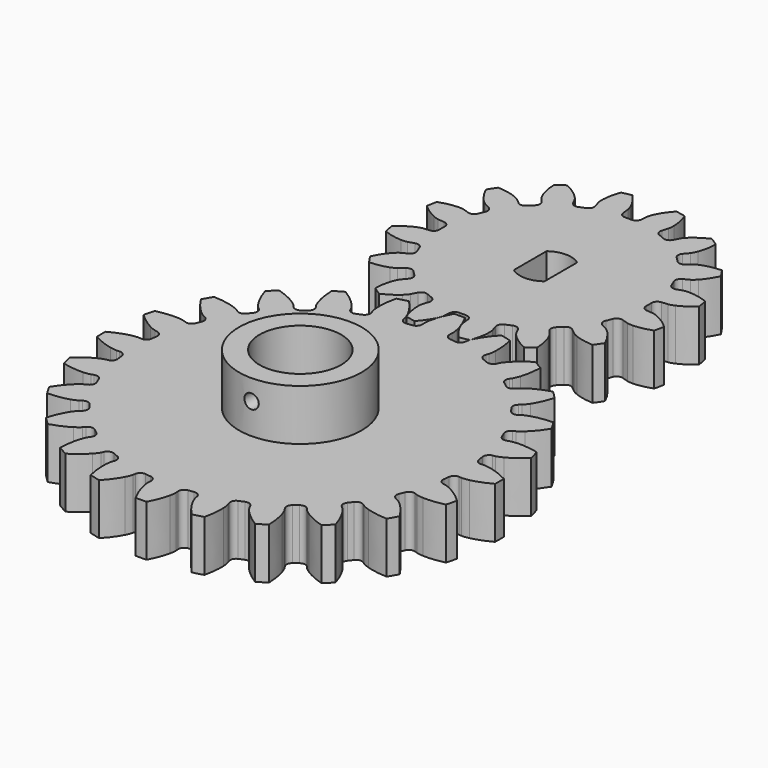
from build123d import *

# Parameters (mm, degrees)
BOX001_W               = 17
BOX001_H               = 14.6
BOX001_DEPTH           = 16.5
CYLINDER005_R          = 2.1
CYLINDER005_DEPTH      = 2
CYLINDER004_R          = 2.1
CYLINDER004_DEPTH      = 2
CYLINDER007_R          = 3.5
CYLINDER007_DEPTH      = 0.75
BOX_W                  = 7
BOX_H                  = 35
BOX_DEPTH              = 0.75
CYLINDER006_R          = 3.5
CYLINDER006_DEPTH      = 0.75
CYLINDER002_R          = 4.5
CYLINDER002_DEPTH      = 1.5
CYLINDER001_R          = 14
CYLINDER001_DEPTH      = 19
BOX003_W               = 1
BOX003_H               = 5
BOX003_DEPTH           = 6
BOX002_W               = 1
BOX002_H               = 5
BOX002_DEPTH           = 6
CYLINDER003_R          = 2.5
CYLINDER003_DEPTH      = 8.5
PAD_DEPTH              = 5
CYLINDER009_R          = 0.7
CYLINDER009_DEPTH      = 10
CYLINDER009_ROLL_ANGLE = 90
CYLINDER_R             = 4
CYLINDER_DEPTH         = 15
PAD001_DEPTH           = 5
CYLINDER008_R          = 6
CYLINDER008_DEPTH      = 12


with BuildPart() as cube001:
    # Box001 → Box001 (new body)
    with BuildSketch(Plane(origin=(0, -7.3, 2.5), x_dir=(1, 0, 0), z_dir=(0, 0, 1))):
        with Locations((8.5, 7.3)):
            Rectangle(BOX001_W, BOX001_H)
    extrude(amount=BOX001_DEPTH)


with BuildPart() as cylinder005:
    # Cylinder005 → Cylinder005 (new body)
    with BuildSketch(Plane(origin=(0, 17.5, 18), x_dir=(1, 0, 0), z_dir=(0, 0, 1))):
        Circle(CYLINDER005_R)
    extrude(amount=CYLINDER005_DEPTH)


with BuildPart() as cylinder004:
    # Cylinder004 → Cylinder004 (new body)
    with BuildSketch(Plane(origin=(0, -17.5, 18), x_dir=(1, 0, 0), z_dir=(0, 0, 1))):
        Circle(CYLINDER004_R)
    extrude(amount=CYLINDER004_DEPTH)


with BuildPart() as cylinder007:
    # Cylinder007 → Cylinder007 (new body)
    with BuildSketch(Plane(origin=(0, 17.5, 18), x_dir=(1, 0, 0), z_dir=(0, 0, 1))):
        Circle(CYLINDER007_R)
    extrude(amount=CYLINDER007_DEPTH)


with BuildPart() as cube:
    # Box → Box (new body)
    with BuildSketch(Plane(origin=(-3.5, -17.5, 18), x_dir=(1, 0, 0), z_dir=(0, 0, 1))):
        with Locations((3.5, 17.5)):
            Rectangle(BOX_W, BOX_H)
    extrude(amount=BOX_DEPTH)


with BuildPart() as cut002:
    # Cylinder006 → Cylinder006 (new body)
    with BuildSketch(Plane(origin=(0, -17.5, 18), x_dir=(1, 0, 0), z_dir=(0, 0, 1))):
        Circle(CYLINDER006_R)
    extrude(amount=CYLINDER006_DEPTH)

    # Fusion: union Cylinder007, Cube
    add(cylinder007.part)
    add(cube.part)


with BuildPart() as cut002_1:
    # Fusion placement: moved
    add(cut002.part.moved(Location((0, 0, 0.25))))

    # Cut001: cut Cylinder004
    add(cylinder004.part, mode=Mode.SUBTRACT)

    # Cut002: cut Cylinder005
    add(cylinder005.part, mode=Mode.SUBTRACT)


with BuildPart() as cylinder002:
    # Cylinder002 → Cylinder002 (new body)
    with BuildSketch(Plane(origin=(-8, 0, 19), x_dir=(1, 0, 0), z_dir=(0, 0, 1))):
        Circle(CYLINDER002_R)
    extrude(amount=CYLINDER002_DEPTH)


with BuildPart() as cylinder001:
    # Cylinder001 → Cylinder001 (new body)
    with BuildSketch(Plane.XY):
        Circle(CYLINDER001_R)
    extrude(amount=CYLINDER001_DEPTH)


with BuildPart() as cube003:
    # Box003 → Box003 (new body)
    with BuildSketch(Plane(origin=(-10.5, -2.5, 23), x_dir=(1, 0, 0), z_dir=(0, 0, 1))):
        with Locations((0.5, 2.5)):
            Rectangle(BOX003_W, BOX003_H)
    extrude(amount=BOX003_DEPTH)


with BuildPart() as cube002:
    # Box002 → Box002 (new body)
    with BuildSketch(Plane(origin=(-6.5, -2.5, 23), x_dir=(1, 0, 0), z_dir=(0, 0, 1))):
        with Locations((0.5, 2.5)):
            Rectangle(BOX002_W, BOX002_H)
    extrude(amount=BOX002_DEPTH)


with BuildPart() as motor:
    # Cylinder003 → Cylinder003 (new body)
    with BuildSketch(Plane(origin=(-8, 0, 20.5), x_dir=(1, 0, 0), z_dir=(0, 0, 1))):
        Circle(CYLINDER003_R)
    extrude(amount=CYLINDER003_DEPTH)

    # Cut003: cut Cube002
    add(cube002.part, mode=Mode.SUBTRACT)

    # Cut004: cut Cube003
    add(cube003.part, mode=Mode.SUBTRACT)

    # Fusion001: union Cube001, Cut002, Cylinder002, Cylinder001
    add(cube001.part)
    add(cut002_1.part)
    add(cylinder002.part)
    add(cylinder001.part)


with BuildPart() as motor_1:
    # Fusion001 placement: moved
    add(motor.part.moved(Location((8, 0, -23.5))))


with BuildPart() as small_gear:
    # InvoluteGear → Pad (new body)
    with BuildSketch(Plane(origin=(0, 0, 0), x_dir=(0.980785, 0.19509, 0), z_dir=(0, 0, 1))):
        with BuildLine():
            Line((10.604525, -1.204288), (11.229569, -1.274112))
            add(Edge.make_bspline(
                [(11.229569, -1.274112), (11.295854, -1.277192), (11.495172, -1.277709), (11.828545, -1.203766)],
                knots=[0, 0, 0, 0, 1, 1, 1, 1], degree=3))
            add(Edge.make_bspline(
                [(11.828545, -1.203766), (12.226607, -1.113799), (12.797122, -0.918468), (13.492577, -0.498449)],
                knots=[0, 0, 0, 0, 1, 1, 1, 1], degree=3))
            ThreePointArc((13.492577, -0.498449), (13.501782, 0), (13.492577, 0.498449))
            add(Edge.make_bspline(
                [(13.492577, 0.498449), (12.797122, 0.918468), (12.226607, 1.113799), (11.828545, 1.203766)],
                knots=[0, 0, 0, 0, 1, 1, 1, 1], degree=3))
            add(Edge.make_bspline(
                [(11.828545, 1.203766), (11.495172, 1.277709), (11.295854, 1.277192), (11.229569, 1.274112)],
                knots=[0, 0, 0, 0, 1, 1, 1, 1], degree=3))
            Line((11.229569, 1.274112), (10.604525, 1.204288))
            ThreePointArc((10.604525, 1.204288), (10.202728, 1.313815), (9.986382, 1.669668))
            ThreePointArc((9.986382, 1.669668), (9.930451, 1.97529), (9.865169, 2.279051))
            ThreePointArc((9.865169, 2.279051), (9.928867, 2.690608), (10.258164, 2.945559))
            Line((10.258164, 2.945559), (10.86235, 3.120244))
            add(Edge.make_bspline(
                [(10.86235, 3.120244), (10.924769, 3.142764), (11.109112, 3.218563), (11.388812, 3.414453)],
                knots=[0, 0, 0, 0, 1, 1, 1, 1], degree=3))
            add(Edge.make_bspline(
                [(11.388812, 3.414453), (11.722144, 3.649904), (12.174482, 4.048693), (12.656264, 4.702878)],
                knots=[0, 0, 0, 0, 1, 1, 1, 1], degree=3))
            ThreePointArc((12.656264, 4.702878), (12.47402, 5.166908), (12.274767, 5.623893))
            add(Edge.make_bspline(
                [(12.274767, 5.623893), (11.471517, 5.7458), (10.86968, 5.707936), (10.467489, 5.638723)],
                knots=[0, 0, 0, 0, 1, 1, 1, 1], degree=3))
            add(Edge.make_bspline(
                [(10.467489, 5.638723), (10.131196, 5.579461), (9.947248, 5.502708), (9.887187, 5.474496)],
                knots=[0, 0, 0, 0, 1, 1, 1, 1], degree=3))
            Line((9.887187, 5.474496), (9.336442, 5.170793))
            ThreePointArc((9.336442, 5.170793), (8.923316, 5.118222), (8.58726, 5.364195))
            ThreePointArc((8.58726, 5.364195), (8.41863, 5.625149), (8.242073, 5.880805))
            ThreePointArc((8.242073, 5.880805), (8.143426, 6.28541), (8.350091, 6.646971))
            Line((8.350091, 6.646971), (8.841437, 7.039571))
            add(Edge.make_bspline(
                [(8.841437, 7.039571), (8.890486, 7.084264), (9.031791, 7.224838), (9.215235, 7.512853)],
                knots=[0, 0, 0, 0, 1, 1, 1, 1], degree=3))
            add(Edge.make_bspline(
                [(9.215235, 7.512853), (9.433091, 7.857942), (9.698387, 8.399477), (9.893149, 9.188235)],
                knots=[0, 0, 0, 0, 1, 1, 1, 1], degree=3))
            ThreePointArc((9.893149, 9.188235), (9.547201, 9.547201), (9.188235, 9.893149))
            add(Edge.make_bspline(
                [(9.188235, 9.893149), (8.399477, 9.698387), (7.857942, 9.433091), (7.512853, 9.215235)],
                knots=[0, 0, 0, 0, 1, 1, 1, 1], degree=3))
            add(Edge.make_bspline(
                [(7.512853, 9.215235), (7.224838, 9.031791), (7.084264, 8.890486), (7.039571, 8.841437)],
                knots=[0, 0, 0, 0, 1, 1, 1, 1], degree=3))
            Line((7.039571, 8.841437), (6.646971, 8.350091))
            ThreePointArc((6.646971, 8.350091), (6.28541, 8.143426), (5.880805, 8.242073))
            ThreePointArc((5.880805, 8.242073), (5.625149, 8.41863), (5.364195, 8.58726))
            ThreePointArc((5.364195, 8.58726), (5.118222, 8.923316), (5.170793, 9.336442))
            Line((5.170793, 9.336442), (5.474496, 9.887187))
            add(Edge.make_bspline(
                [(5.474496, 9.887187), (5.502708, 9.947248), (5.579461, 10.131196), (5.638723, 10.467489)],
                knots=[0, 0, 0, 0, 1, 1, 1, 1], degree=3))
            add(Edge.make_bspline(
                [(5.638723, 10.467489), (5.707936, 10.86968), (5.7458, 11.471517), (5.623893, 12.274767)],
                knots=[0, 0, 0, 0, 1, 1, 1, 1], degree=3))
            ThreePointArc((5.623893, 12.274767), (5.166908, 12.47402), (4.702878, 12.656264))
            add(Edge.make_bspline(
                [(4.702878, 12.656264), (4.048693, 12.174482), (3.649904, 11.722144), (3.414453, 11.388812)],
                knots=[0, 0, 0, 0, 1, 1, 1, 1], degree=3))
            add(Edge.make_bspline(
                [(3.414453, 11.388812), (3.218563, 11.109112), (3.142764, 10.924769), (3.120244, 10.86235)],
                knots=[0, 0, 0, 0, 1, 1, 1, 1], degree=3))
            Line((3.120244, 10.86235), (2.945559, 10.258164))
            ThreePointArc((2.945559, 10.258164), (2.690608, 9.928867), (2.279051, 9.865169))
            ThreePointArc((2.279051, 9.865169), (1.97529, 9.930451), (1.669668, 9.986382))
            ThreePointArc((1.669668, 9.986382), (1.313815, 10.202728), (1.204288, 10.604525))
            Line((1.204288, 10.604525), (1.274112, 11.229569))
            add(Edge.make_bspline(
                [(1.274112, 11.229569), (1.277192, 11.295854), (1.277709, 11.495172), (1.203766, 11.828545)],
                knots=[0, 0, 0, 0, 1, 1, 1, 1], degree=3))
            add(Edge.make_bspline(
                [(1.203766, 11.828545), (1.113799, 12.226607), (0.918468, 12.797122), (0.498449, 13.492577)],
                knots=[0, 0, 0, 0, 1, 1, 1, 1], degree=3))
            ThreePointArc((0.498449, 13.492577), (0, 13.501782), (-0.498449, 13.492577))
            add(Edge.make_bspline(
                [(-0.498449, 13.492577), (-0.918468, 12.797122), (-1.113799, 12.226607), (-1.203766, 11.828545)],
                knots=[0, 0, 0, 0, 1, 1, 1, 1], degree=3))
            add(Edge.make_bspline(
                [(-1.203766, 11.828545), (-1.277709, 11.495172), (-1.277192, 11.295854), (-1.274112, 11.229569)],
                knots=[0, 0, 0, 0, 1, 1, 1, 1], degree=3))
            Line((-1.274112, 11.229569), (-1.204288, 10.604525))
            ThreePointArc((-1.204288, 10.604525), (-1.313815, 10.202728), (-1.669668, 9.986382))
            ThreePointArc((-1.669668, 9.986382), (-1.97529, 9.930451), (-2.279051, 9.865169))
            ThreePointArc((-2.279051, 9.865169), (-2.690608, 9.928867), (-2.945559, 10.258164))
            Line((-2.945559, 10.258164), (-3.120244, 10.86235))
            add(Edge.make_bspline(
                [(-3.120244, 10.86235), (-3.142764, 10.924769), (-3.218563, 11.109112), (-3.414453, 11.388812)],
                knots=[0, 0, 0, 0, 1, 1, 1, 1], degree=3))
            add(Edge.make_bspline(
                [(-3.414453, 11.388812), (-3.649904, 11.722144), (-4.048693, 12.174482), (-4.702878, 12.656264)],
                knots=[0, 0, 0, 0, 1, 1, 1, 1], degree=3))
            ThreePointArc((-4.702878, 12.656264), (-5.166908, 12.47402), (-5.623893, 12.274767))
            add(Edge.make_bspline(
                [(-5.623893, 12.274767), (-5.7458, 11.471517), (-5.707936, 10.86968), (-5.638723, 10.467489)],
                knots=[0, 0, 0, 0, 1, 1, 1, 1], degree=3))
            add(Edge.make_bspline(
                [(-5.638723, 10.467489), (-5.579461, 10.131196), (-5.502708, 9.947248), (-5.474496, 9.887187)],
                knots=[0, 0, 0, 0, 1, 1, 1, 1], degree=3))
            Line((-5.474496, 9.887187), (-5.170793, 9.336442))
            ThreePointArc((-5.170793, 9.336442), (-5.118222, 8.923316), (-5.364195, 8.58726))
            ThreePointArc((-5.364195, 8.58726), (-5.625149, 8.41863), (-5.880805, 8.242073))
            ThreePointArc((-5.880805, 8.242073), (-6.28541, 8.143426), (-6.646971, 8.350091))
            Line((-6.646971, 8.350091), (-7.039571, 8.841437))
            add(Edge.make_bspline(
                [(-7.039571, 8.841437), (-7.084264, 8.890486), (-7.224838, 9.031791), (-7.512853, 9.215235)],
                knots=[0, 0, 0, 0, 1, 1, 1, 1], degree=3))
            add(Edge.make_bspline(
                [(-7.512853, 9.215235), (-7.857942, 9.433091), (-8.399477, 9.698387), (-9.188235, 9.893149)],
                knots=[0, 0, 0, 0, 1, 1, 1, 1], degree=3))
            ThreePointArc((-9.188235, 9.893149), (-9.547201, 9.547201), (-9.893149, 9.188235))
            add(Edge.make_bspline(
                [(-9.893149, 9.188235), (-9.698387, 8.399477), (-9.433091, 7.857942), (-9.215235, 7.512853)],
                knots=[0, 0, 0, 0, 1, 1, 1, 1], degree=3))
            add(Edge.make_bspline(
                [(-9.215235, 7.512853), (-9.031791, 7.224838), (-8.890486, 7.084264), (-8.841437, 7.039571)],
                knots=[0, 0, 0, 0, 1, 1, 1, 1], degree=3))
            Line((-8.841437, 7.039571), (-8.350091, 6.646971))
            ThreePointArc((-8.350091, 6.646971), (-8.143426, 6.28541), (-8.242073, 5.880805))
            ThreePointArc((-8.242073, 5.880805), (-8.41863, 5.625149), (-8.58726, 5.364195))
            ThreePointArc((-8.58726, 5.364195), (-8.923316, 5.118222), (-9.336442, 5.170793))
            Line((-9.336442, 5.170793), (-9.887187, 5.474496))
            add(Edge.make_bspline(
                [(-9.887187, 5.474496), (-9.947248, 5.502708), (-10.131196, 5.579461), (-10.467489, 5.638723)],
                knots=[0, 0, 0, 0, 1, 1, 1, 1], degree=3))
            add(Edge.make_bspline(
                [(-10.467489, 5.638723), (-10.86968, 5.707936), (-11.471517, 5.7458), (-12.274767, 5.623893)],
                knots=[0, 0, 0, 0, 1, 1, 1, 1], degree=3))
            ThreePointArc((-12.274767, 5.623893), (-12.47402, 5.166908), (-12.656264, 4.702878))
            add(Edge.make_bspline(
                [(-12.656264, 4.702878), (-12.174482, 4.048693), (-11.722144, 3.649904), (-11.388812, 3.414453)],
                knots=[0, 0, 0, 0, 1, 1, 1, 1], degree=3))
            add(Edge.make_bspline(
                [(-11.388812, 3.414453), (-11.109112, 3.218563), (-10.924769, 3.142764), (-10.86235, 3.120244)],
                knots=[0, 0, 0, 0, 1, 1, 1, 1], degree=3))
            Line((-10.86235, 3.120244), (-10.258164, 2.945559))
            ThreePointArc((-10.258164, 2.945559), (-9.928867, 2.690608), (-9.865169, 2.279051))
            ThreePointArc((-9.865169, 2.279051), (-9.930451, 1.97529), (-9.986382, 1.669668))
            ThreePointArc((-9.986382, 1.669668), (-10.202728, 1.313815), (-10.604525, 1.204288))
            Line((-10.604525, 1.204288), (-11.229569, 1.274112))
            add(Edge.make_bspline(
                [(-11.229569, 1.274112), (-11.295854, 1.277192), (-11.495172, 1.277709), (-11.828545, 1.203766)],
                knots=[0, 0, 0, 0, 1, 1, 1, 1], degree=3))
            add(Edge.make_bspline(
                [(-11.828545, 1.203766), (-12.226607, 1.113799), (-12.797122, 0.918468), (-13.492577, 0.498449)],
                knots=[0, 0, 0, 0, 1, 1, 1, 1], degree=3))
            ThreePointArc((-13.492577, 0.498449), (-13.501782, 0), (-13.492577, -0.498449))
            add(Edge.make_bspline(
                [(-13.492577, -0.498449), (-12.797122, -0.918468), (-12.226607, -1.113799), (-11.828545, -1.203766)],
                knots=[0, 0, 0, 0, 1, 1, 1, 1], degree=3))
            add(Edge.make_bspline(
                [(-11.828545, -1.203766), (-11.495172, -1.277709), (-11.295854, -1.277192), (-11.229569, -1.274112)],
                knots=[0, 0, 0, 0, 1, 1, 1, 1], degree=3))
            Line((-11.229569, -1.274112), (-10.604525, -1.204288))
            ThreePointArc((-10.604525, -1.204288), (-10.202728, -1.313815), (-9.986382, -1.669668))
            ThreePointArc((-9.986382, -1.669668), (-9.930451, -1.97529), (-9.865169, -2.279051))
            ThreePointArc((-9.865169, -2.279051), (-9.928867, -2.690608), (-10.258164, -2.945559))
            Line((-10.258164, -2.945559), (-10.86235, -3.120244))
            add(Edge.make_bspline(
                [(-10.86235, -3.120244), (-10.924769, -3.142764), (-11.109112, -3.218563), (-11.388812, -3.414453)],
                knots=[0, 0, 0, 0, 1, 1, 1, 1], degree=3))
            add(Edge.make_bspline(
                [(-11.388812, -3.414453), (-11.722144, -3.649904), (-12.174482, -4.048693), (-12.656264, -4.702878)],
                knots=[0, 0, 0, 0, 1, 1, 1, 1], degree=3))
            ThreePointArc((-12.656264, -4.702878), (-12.47402, -5.166908), (-12.274767, -5.623893))
            add(Edge.make_bspline(
                [(-12.274767, -5.623893), (-11.471517, -5.7458), (-10.86968, -5.707936), (-10.467489, -5.638723)],
                knots=[0, 0, 0, 0, 1, 1, 1, 1], degree=3))
            add(Edge.make_bspline(
                [(-10.467489, -5.638723), (-10.131196, -5.579461), (-9.947248, -5.502708), (-9.887187, -5.474496)],
                knots=[0, 0, 0, 0, 1, 1, 1, 1], degree=3))
            Line((-9.887187, -5.474496), (-9.336442, -5.170793))
            ThreePointArc((-9.336442, -5.170793), (-8.923316, -5.118222), (-8.58726, -5.364195))
            ThreePointArc((-8.58726, -5.364195), (-8.41863, -5.625149), (-8.242073, -5.880805))
            ThreePointArc((-8.242073, -5.880805), (-8.143426, -6.28541), (-8.350091, -6.646971))
            Line((-8.350091, -6.646971), (-8.841437, -7.039571))
            add(Edge.make_bspline(
                [(-8.841437, -7.039571), (-8.890486, -7.084264), (-9.031791, -7.224838), (-9.215235, -7.512853)],
                knots=[0, 0, 0, 0, 1, 1, 1, 1], degree=3))
            add(Edge.make_bspline(
                [(-9.215235, -7.512853), (-9.433091, -7.857942), (-9.698387, -8.399477), (-9.893149, -9.188235)],
                knots=[0, 0, 0, 0, 1, 1, 1, 1], degree=3))
            ThreePointArc((-9.893149, -9.188235), (-9.547201, -9.547201), (-9.188235, -9.893149))
            add(Edge.make_bspline(
                [(-9.188235, -9.893149), (-8.399477, -9.698387), (-7.857942, -9.433091), (-7.512853, -9.215235)],
                knots=[0, 0, 0, 0, 1, 1, 1, 1], degree=3))
            add(Edge.make_bspline(
                [(-7.512853, -9.215235), (-7.224838, -9.031791), (-7.084264, -8.890486), (-7.039571, -8.841437)],
                knots=[0, 0, 0, 0, 1, 1, 1, 1], degree=3))
            Line((-7.039571, -8.841437), (-6.646971, -8.350091))
            ThreePointArc((-6.646971, -8.350091), (-6.28541, -8.143426), (-5.880805, -8.242073))
            ThreePointArc((-5.880805, -8.242073), (-5.625149, -8.41863), (-5.364195, -8.58726))
            ThreePointArc((-5.364195, -8.58726), (-5.118222, -8.923316), (-5.170793, -9.336442))
            Line((-5.170793, -9.336442), (-5.474496, -9.887187))
            add(Edge.make_bspline(
                [(-5.474496, -9.887187), (-5.502708, -9.947248), (-5.579461, -10.131196), (-5.638723, -10.467489)],
                knots=[0, 0, 0, 0, 1, 1, 1, 1], degree=3))
            add(Edge.make_bspline(
                [(-5.638723, -10.467489), (-5.707936, -10.86968), (-5.7458, -11.471517), (-5.623893, -12.274767)],
                knots=[0, 0, 0, 0, 1, 1, 1, 1], degree=3))
            ThreePointArc((-5.623893, -12.274767), (-5.166908, -12.47402), (-4.702878, -12.656264))
            add(Edge.make_bspline(
                [(-4.702878, -12.656264), (-4.048693, -12.174482), (-3.649904, -11.722144), (-3.414453, -11.388812)],
                knots=[0, 0, 0, 0, 1, 1, 1, 1], degree=3))
            add(Edge.make_bspline(
                [(-3.414453, -11.388812), (-3.218563, -11.109112), (-3.142764, -10.924769), (-3.120244, -10.86235)],
                knots=[0, 0, 0, 0, 1, 1, 1, 1], degree=3))
            Line((-3.120244, -10.86235), (-2.945559, -10.258164))
            ThreePointArc((-2.945559, -10.258164), (-2.690608, -9.928867), (-2.279051, -9.865169))
            ThreePointArc((-2.279051, -9.865169), (-1.97529, -9.930451), (-1.669668, -9.986382))
            ThreePointArc((-1.669668, -9.986382), (-1.313815, -10.202728), (-1.204288, -10.604525))
            Line((-1.204288, -10.604525), (-1.274112, -11.229569))
            add(Edge.make_bspline(
                [(-1.274112, -11.229569), (-1.277192, -11.295854), (-1.277709, -11.495172), (-1.203766, -11.828545)],
                knots=[0, 0, 0, 0, 1, 1, 1, 1], degree=3))
            add(Edge.make_bspline(
                [(-1.203766, -11.828545), (-1.113799, -12.226607), (-0.918468, -12.797122), (-0.498449, -13.492577)],
                knots=[0, 0, 0, 0, 1, 1, 1, 1], degree=3))
            ThreePointArc((-0.498449, -13.492577), (0, -13.501782), (0.498449, -13.492577))
            add(Edge.make_bspline(
                [(0.498449, -13.492577), (0.918468, -12.797122), (1.113799, -12.226607), (1.203766, -11.828545)],
                knots=[0, 0, 0, 0, 1, 1, 1, 1], degree=3))
            add(Edge.make_bspline(
                [(1.203766, -11.828545), (1.277709, -11.495172), (1.277192, -11.295854), (1.274112, -11.229569)],
                knots=[0, 0, 0, 0, 1, 1, 1, 1], degree=3))
            Line((1.274112, -11.229569), (1.204288, -10.604525))
            ThreePointArc((1.204288, -10.604525), (1.313815, -10.202728), (1.669668, -9.986382))
            ThreePointArc((1.669668, -9.986382), (1.97529, -9.930451), (2.279051, -9.865169))
            ThreePointArc((2.279051, -9.865169), (2.690608, -9.928867), (2.945559, -10.258164))
            Line((2.945559, -10.258164), (3.120244, -10.86235))
            add(Edge.make_bspline(
                [(3.120244, -10.86235), (3.142764, -10.924769), (3.218563, -11.109112), (3.414453, -11.388812)],
                knots=[0, 0, 0, 0, 1, 1, 1, 1], degree=3))
            add(Edge.make_bspline(
                [(3.414453, -11.388812), (3.649904, -11.722144), (4.048693, -12.174482), (4.702878, -12.656264)],
                knots=[0, 0, 0, 0, 1, 1, 1, 1], degree=3))
            ThreePointArc((4.702878, -12.656264), (5.166908, -12.47402), (5.623893, -12.274767))
            add(Edge.make_bspline(
                [(5.623893, -12.274767), (5.7458, -11.471517), (5.707936, -10.86968), (5.638723, -10.467489)],
                knots=[0, 0, 0, 0, 1, 1, 1, 1], degree=3))
            add(Edge.make_bspline(
                [(5.638723, -10.467489), (5.579461, -10.131196), (5.502708, -9.947248), (5.474496, -9.887187)],
                knots=[0, 0, 0, 0, 1, 1, 1, 1], degree=3))
            Line((5.474496, -9.887187), (5.170793, -9.336442))
            ThreePointArc((5.170793, -9.336442), (5.118222, -8.923316), (5.364195, -8.58726))
            ThreePointArc((5.364195, -8.58726), (5.625149, -8.41863), (5.880805, -8.242073))
            ThreePointArc((5.880805, -8.242073), (6.28541, -8.143426), (6.646971, -8.350091))
            Line((6.646971, -8.350091), (7.039571, -8.841437))
            add(Edge.make_bspline(
                [(7.039571, -8.841437), (7.084264, -8.890486), (7.224838, -9.031791), (7.512853, -9.215235)],
                knots=[0, 0, 0, 0, 1, 1, 1, 1], degree=3))
            add(Edge.make_bspline(
                [(7.512853, -9.215235), (7.857942, -9.433091), (8.399477, -9.698387), (9.188235, -9.893149)],
                knots=[0, 0, 0, 0, 1, 1, 1, 1], degree=3))
            ThreePointArc((9.188235, -9.893149), (9.547201, -9.547201), (9.893149, -9.188235))
            add(Edge.make_bspline(
                [(9.893149, -9.188235), (9.698387, -8.399477), (9.433091, -7.857942), (9.215235, -7.512853)],
                knots=[0, 0, 0, 0, 1, 1, 1, 1], degree=3))
            add(Edge.make_bspline(
                [(9.215235, -7.512853), (9.031791, -7.224838), (8.890486, -7.084264), (8.841437, -7.039571)],
                knots=[0, 0, 0, 0, 1, 1, 1, 1], degree=3))
            Line((8.841437, -7.039571), (8.350091, -6.646971))
            ThreePointArc((8.350091, -6.646971), (8.143426, -6.28541), (8.242073, -5.880805))
            ThreePointArc((8.242073, -5.880805), (8.41863, -5.625149), (8.58726, -5.364195))
            ThreePointArc((8.58726, -5.364195), (8.923316, -5.118222), (9.336442, -5.170793))
            Line((9.336442, -5.170793), (9.887187, -5.474496))
            add(Edge.make_bspline(
                [(9.887187, -5.474496), (9.947248, -5.502708), (10.131196, -5.579461), (10.467489, -5.638723)],
                knots=[0, 0, 0, 0, 1, 1, 1, 1], degree=3))
            add(Edge.make_bspline(
                [(10.467489, -5.638723), (10.86968, -5.707936), (11.471517, -5.7458), (12.274767, -5.623893)],
                knots=[0, 0, 0, 0, 1, 1, 1, 1], degree=3))
            ThreePointArc((12.274767, -5.623893), (12.47402, -5.166908), (12.656264, -4.702878))
            add(Edge.make_bspline(
                [(12.656264, -4.702878), (12.174482, -4.048693), (11.722144, -3.649904), (11.388812, -3.414453)],
                knots=[0, 0, 0, 0, 1, 1, 1, 1], degree=3))
            add(Edge.make_bspline(
                [(11.388812, -3.414453), (11.109112, -3.218563), (10.924769, -3.142764), (10.86235, -3.120244)],
                knots=[0, 0, 0, 0, 1, 1, 1, 1], degree=3))
            Line((10.86235, -3.120244), (10.258164, -2.945559))
            ThreePointArc((10.258164, -2.945559), (9.928867, -2.690608), (9.865169, -2.279051))
            ThreePointArc((9.865169, -2.279051), (9.930451, -1.97529), (9.986382, -1.669668))
            ThreePointArc((9.986382, -1.669668), (10.202728, -1.313815), (10.604525, -1.204288))
        make_face()
    extrude(amount=PAD_DEPTH)

    # Cut005: cut motor
    add(motor_1.part, mode=Mode.SUBTRACT)


with BuildPart() as small_gear_1:
    # Cut005 placement: moved
    add(small_gear.part.moved(Location((0, 30, 0))))


with BuildPart() as cylinder009:
    # Cylinder009 → Cylinder009 (new body)
    with BuildSketch(Plane.XY):
        Circle(CYLINDER009_R)
    extrude(amount=CYLINDER009_DEPTH)


with BuildPart() as cylinder009_1:
    # Cylinder009 roll: moved
    add(cylinder009.part.rotate(Axis((0, 0, 0), (1, 0, 0)), CYLINDER009_ROLL_ANGLE))


with BuildPart() as cylinder009_2:
    # Cylinder009 placement: moved
    add(cylinder009_1.part.moved(Location((0, 0, 8))))


with BuildPart() as cylinder:
    # Cylinder → Cylinder (new body)
    with BuildSketch(Plane.XY.offset(-2)):
        Circle(CYLINDER_R)
    extrude(amount=CYLINDER_DEPTH)


with BuildPart() as pad001:
    # InvoluteGear001 → Pad001 (new body)
    with BuildSketch(Plane.XY):
        with BuildLine():
            Line((16.624203, -1.338708), (16.88848, -1.358861))
            add(Edge.make_bspline(
                [(16.88848, -1.358861), (16.964059, -1.360558), (17.191713, -1.356955), (17.571029, -1.276517)],
                knots=[0, 0, 0, 0, 1, 1, 1, 1], degree=3))
            add(Edge.make_bspline(
                [(17.571029, -1.276517), (18.025313, -1.178915), (18.680882, -0.97201), (19.494199, -0.536026)],
                knots=[0, 0, 0, 0, 1, 1, 1, 1], degree=3))
            ThreePointArc((19.494199, -0.536026), (19.501567, 0), (19.494199, 0.536026))
            add(Edge.make_bspline(
                [(19.494199, 0.536026), (18.680882, 0.97201), (18.025313, 1.178915), (17.571029, 1.276517)],
                knots=[0, 0, 0, 0, 1, 1, 1, 1], degree=3))
            add(Edge.make_bspline(
                [(17.571029, 1.276517), (17.191713, 1.356955), (16.964059, 1.360558), (16.88848, 1.358861)],
                knots=[0, 0, 0, 0, 1, 1, 1, 1], degree=3))
            Line((16.88848, 1.358861), (16.624203, 1.338708))
            ThreePointArc((16.624203, 1.338708), (16.221906, 1.46482), (16.020243, 1.835061))
            ThreePointArc((16.020243, 1.835061), (15.987048, 2.104735), (15.949315, 2.373811))
            ThreePointArc((15.949315, 2.373811), (16.048281, 2.783631), (16.40423, 3.009568))
            Line((16.40423, 3.009568), (16.664718, 3.058501))
            add(Edge.make_bspline(
                [(16.664718, 3.058501), (16.738161, 3.076423), (16.957125, 3.138825), (17.302698, 3.314696)],
                knots=[0, 0, 0, 0, 1, 1, 1, 1], degree=3))
            add(Edge.make_bspline(
                [(17.302698, 3.314696), (17.716241, 3.52655), (18.295921, 3.896078), (18.968683, 4.527709)],
                knots=[0, 0, 0, 0, 1, 1, 1, 1], degree=3))
            ThreePointArc((18.968683, 4.527709), (18.837067, 5.047377), (18.691216, 5.563231))
            add(Edge.make_bspline(
                [(18.691216, 5.563231), (17.792771, 5.773857), (17.10599, 5.804039), (16.641924, 5.780738)],
                knots=[0, 0, 0, 0, 1, 1, 1, 1], degree=3))
            add(Edge.make_bspline(
                [(16.641924, 5.780738), (16.254714, 5.76026), (16.033884, 5.70482), (15.96132, 5.68362)],
                knots=[0, 0, 0, 0, 1, 1, 1, 1], degree=3))
            Line((15.96132, 5.68362), (15.711264, 5.595752))
            ThreePointArc((15.711264, 5.595752), (15.290035, 5.613446), (14.999417, 5.918877))
            ThreePointArc((14.999417, 5.918877), (14.897557, 6.17077), (14.791468, 6.420912))
            ThreePointArc((14.791468, 6.420912), (14.780993, 6.842382), (15.066336, 7.152747))
            Line((15.066336, 7.152747), (15.305283, 7.267432))
            add(Edge.make_bspline(
                [(15.305283, 7.267432), (15.371585, 7.303751), (15.566938, 7.420699), (15.855216, 7.680018)],
                knots=[0, 0, 0, 0, 1, 1, 1, 1], degree=3))
            add(Edge.make_bspline(
                [(15.855216, 7.680018), (16.199836, 7.991686), (16.664123, 8.498655), (17.150484, 9.282888)],
                knots=[0, 0, 0, 0, 1, 1, 1, 1], degree=3))
            ThreePointArc((17.150484, 9.282888), (16.888853, 9.750784), (16.614458, 10.211311))
            add(Edge.make_bspline(
                [(16.614458, 10.211311), (15.692113, 10.182226), (15.020921, 10.033627), (14.578699, 9.891011)],
                knots=[0, 0, 0, 0, 1, 1, 1, 1], degree=3))
            add(Edge.make_bspline(
                [(14.578699, 9.891011), (14.209983, 9.771014), (14.011027, 9.660307), (13.946422, 9.621049)],
                knots=[0, 0, 0, 0, 1, 1, 1, 1], degree=3))
            Line((13.946422, 9.621049), (13.727628, 9.471456))
            ThreePointArc((13.727628, 9.471456), (13.316173, 9.379524), (12.956406, 9.599331))
            ThreePointArc((12.956406, 9.599331), (12.792823, 9.816278), (12.625607, 10.030438))
            ThreePointArc((12.625607, 10.030438), (12.506404, 10.434836), (12.701696, 10.808477))
            Line((12.701696, 10.808477), (12.902819, 10.981099))
            add(Edge.make_bspline(
                [(12.902819, 10.981099), (12.957461, 11.033341), (13.115889, 11.196865), (13.327228, 11.52196)],
                knots=[0, 0, 0, 0, 1, 1, 1, 1], degree=3))
            add(Edge.make_bspline(
                [(13.327228, 11.52196), (13.57944, 11.912202), (13.896693, 12.522063), (14.163507, 13.405453)],
                knots=[0, 0, 0, 0, 1, 1, 1, 1], degree=3))
            ThreePointArc((14.163507, 13.405453), (13.78969, 13.78969), (13.405453, 14.163507))
            add(Edge.make_bspline(
                [(13.405453, 14.163507), (12.522063, 13.896693), (11.912202, 13.57944), (11.52196, 13.327228)],
                knots=[0, 0, 0, 0, 1, 1, 1, 1], degree=3))
            add(Edge.make_bspline(
                [(11.52196, 13.327228), (11.196865, 13.115889), (11.033341, 12.957461), (10.981099, 12.902819)],
                knots=[0, 0, 0, 0, 1, 1, 1, 1], degree=3))
            Line((10.981099, 12.902819), (10.808477, 12.701696))
            ThreePointArc((10.808477, 12.701696), (10.434836, 12.506404), (10.030438, 12.625607))
            ThreePointArc((10.030438, 12.625607), (9.816278, 12.792823), (9.599331, 12.956406))
            ThreePointArc((9.599331, 12.956406), (9.379524, 13.316173), (9.471456, 13.727628))
            Line((9.471456, 13.727628), (9.621049, 13.946422))
            add(Edge.make_bspline(
                [(9.621049, 13.946422), (9.660307, 14.011027), (9.771014, 14.209983), (9.891011, 14.578699)],
                knots=[0, 0, 0, 0, 1, 1, 1, 1], degree=3))
            add(Edge.make_bspline(
                [(9.891011, 14.578699), (10.033627, 15.020921), (10.182226, 15.692113), (10.211311, 16.614458)],
                knots=[0, 0, 0, 0, 1, 1, 1, 1], degree=3))
            ThreePointArc((10.211311, 16.614458), (9.750784, 16.888853), (9.282888, 17.150484))
            add(Edge.make_bspline(
                [(9.282888, 17.150484), (8.498655, 16.664123), (7.991686, 16.199836), (7.680018, 15.855216)],
                knots=[0, 0, 0, 0, 1, 1, 1, 1], degree=3))
            add(Edge.make_bspline(
                [(7.680018, 15.855216), (7.420699, 15.566938), (7.303751, 15.371585), (7.267432, 15.305283)],
                knots=[0, 0, 0, 0, 1, 1, 1, 1], degree=3))
            Line((7.267432, 15.305283), (7.152747, 15.066336))
            ThreePointArc((7.152747, 15.066336), (6.842382, 14.780993), (6.420912, 14.791468))
            ThreePointArc((6.420912, 14.791468), (6.17077, 14.897557), (5.918877, 14.999417))
            ThreePointArc((5.918877, 14.999417), (5.613446, 15.290035), (5.595752, 15.711264))
            Line((5.595752, 15.711264), (5.68362, 15.96132))
            add(Edge.make_bspline(
                [(5.68362, 15.96132), (5.70482, 16.033884), (5.76026, 16.254714), (5.780738, 16.641924)],
                knots=[0, 0, 0, 0, 1, 1, 1, 1], degree=3))
            add(Edge.make_bspline(
                [(5.780738, 16.641924), (5.804039, 17.10599), (5.773857, 17.792771), (5.563231, 18.691216)],
                knots=[0, 0, 0, 0, 1, 1, 1, 1], degree=3))
            ThreePointArc((5.563231, 18.691216), (5.047377, 18.837067), (4.527709, 18.968683))
            add(Edge.make_bspline(
                [(4.527709, 18.968683), (3.896078, 18.295921), (3.52655, 17.716241), (3.314696, 17.302698)],
                knots=[0, 0, 0, 0, 1, 1, 1, 1], degree=3))
            add(Edge.make_bspline(
                [(3.314696, 17.302698), (3.138825, 16.957125), (3.076423, 16.738161), (3.058501, 16.664718)],
                knots=[0, 0, 0, 0, 1, 1, 1, 1], degree=3))
            Line((3.058501, 16.664718), (3.009568, 16.40423))
            ThreePointArc((3.009568, 16.40423), (2.783631, 16.048281), (2.373811, 15.949315))
            ThreePointArc((2.373811, 15.949315), (2.104735, 15.987048), (1.835061, 16.020243))
            ThreePointArc((1.835061, 16.020243), (1.46482, 16.221906), (1.338708, 16.624203))
            Line((1.338708, 16.624203), (1.358861, 16.88848))
            add(Edge.make_bspline(
                [(1.358861, 16.88848), (1.360558, 16.964059), (1.356955, 17.191713), (1.276517, 17.571029)],
                knots=[0, 0, 0, 0, 1, 1, 1, 1], degree=3))
            add(Edge.make_bspline(
                [(1.276517, 17.571029), (1.178915, 18.025313), (0.97201, 18.680882), (0.536026, 19.494199)],
                knots=[0, 0, 0, 0, 1, 1, 1, 1], degree=3))
            ThreePointArc((0.536026, 19.494199), (0, 19.501567), (-0.536026, 19.494199))
            add(Edge.make_bspline(
                [(-0.536026, 19.494199), (-0.97201, 18.680882), (-1.178915, 18.025313), (-1.276517, 17.571029)],
                knots=[0, 0, 0, 0, 1, 1, 1, 1], degree=3))
            add(Edge.make_bspline(
                [(-1.276517, 17.571029), (-1.356955, 17.191713), (-1.360558, 16.964059), (-1.358861, 16.88848)],
                knots=[0, 0, 0, 0, 1, 1, 1, 1], degree=3))
            Line((-1.358861, 16.88848), (-1.338708, 16.624203))
            ThreePointArc((-1.338708, 16.624203), (-1.46482, 16.221906), (-1.835061, 16.020243))
            ThreePointArc((-1.835061, 16.020243), (-2.104735, 15.987048), (-2.373811, 15.949315))
            ThreePointArc((-2.373811, 15.949315), (-2.783631, 16.048281), (-3.009568, 16.40423))
            Line((-3.009568, 16.40423), (-3.058501, 16.664718))
            add(Edge.make_bspline(
                [(-3.058501, 16.664718), (-3.076423, 16.738161), (-3.138825, 16.957125), (-3.314696, 17.302698)],
                knots=[0, 0, 0, 0, 1, 1, 1, 1], degree=3))
            add(Edge.make_bspline(
                [(-3.314696, 17.302698), (-3.52655, 17.716241), (-3.896078, 18.295921), (-4.527709, 18.968683)],
                knots=[0, 0, 0, 0, 1, 1, 1, 1], degree=3))
            ThreePointArc((-4.527709, 18.968683), (-5.047377, 18.837067), (-5.563231, 18.691216))
            add(Edge.make_bspline(
                [(-5.563231, 18.691216), (-5.773857, 17.792771), (-5.804039, 17.10599), (-5.780738, 16.641924)],
                knots=[0, 0, 0, 0, 1, 1, 1, 1], degree=3))
            add(Edge.make_bspline(
                [(-5.780738, 16.641924), (-5.76026, 16.254714), (-5.70482, 16.033884), (-5.68362, 15.96132)],
                knots=[0, 0, 0, 0, 1, 1, 1, 1], degree=3))
            Line((-5.68362, 15.96132), (-5.595752, 15.711264))
            ThreePointArc((-5.595752, 15.711264), (-5.613446, 15.290035), (-5.918877, 14.999417))
            ThreePointArc((-5.918877, 14.999417), (-6.17077, 14.897557), (-6.420912, 14.791468))
            ThreePointArc((-6.420912, 14.791468), (-6.842382, 14.780993), (-7.152747, 15.066336))
            Line((-7.152747, 15.066336), (-7.267432, 15.305283))
            add(Edge.make_bspline(
                [(-7.267432, 15.305283), (-7.303751, 15.371585), (-7.420699, 15.566938), (-7.680018, 15.855216)],
                knots=[0, 0, 0, 0, 1, 1, 1, 1], degree=3))
            add(Edge.make_bspline(
                [(-7.680018, 15.855216), (-7.991686, 16.199836), (-8.498655, 16.664123), (-9.282888, 17.150484)],
                knots=[0, 0, 0, 0, 1, 1, 1, 1], degree=3))
            ThreePointArc((-9.282888, 17.150484), (-9.750784, 16.888853), (-10.211311, 16.614458))
            add(Edge.make_bspline(
                [(-10.211311, 16.614458), (-10.182226, 15.692113), (-10.033627, 15.020921), (-9.891011, 14.578699)],
                knots=[0, 0, 0, 0, 1, 1, 1, 1], degree=3))
            add(Edge.make_bspline(
                [(-9.891011, 14.578699), (-9.771014, 14.209983), (-9.660307, 14.011027), (-9.621049, 13.946422)],
                knots=[0, 0, 0, 0, 1, 1, 1, 1], degree=3))
            Line((-9.621049, 13.946422), (-9.471456, 13.727628))
            ThreePointArc((-9.471456, 13.727628), (-9.379524, 13.316173), (-9.599331, 12.956406))
            ThreePointArc((-9.599331, 12.956406), (-9.816278, 12.792823), (-10.030438, 12.625607))
            ThreePointArc((-10.030438, 12.625607), (-10.434836, 12.506404), (-10.808477, 12.701696))
            Line((-10.808477, 12.701696), (-10.981099, 12.902819))
            add(Edge.make_bspline(
                [(-10.981099, 12.902819), (-11.033341, 12.957461), (-11.196865, 13.115889), (-11.52196, 13.327228)],
                knots=[0, 0, 0, 0, 1, 1, 1, 1], degree=3))
            add(Edge.make_bspline(
                [(-11.52196, 13.327228), (-11.912202, 13.57944), (-12.522063, 13.896693), (-13.405453, 14.163507)],
                knots=[0, 0, 0, 0, 1, 1, 1, 1], degree=3))
            ThreePointArc((-13.405453, 14.163507), (-13.78969, 13.78969), (-14.163507, 13.405453))
            add(Edge.make_bspline(
                [(-14.163507, 13.405453), (-13.896693, 12.522063), (-13.57944, 11.912202), (-13.327228, 11.52196)],
                knots=[0, 0, 0, 0, 1, 1, 1, 1], degree=3))
            add(Edge.make_bspline(
                [(-13.327228, 11.52196), (-13.115889, 11.196865), (-12.957461, 11.033341), (-12.902819, 10.981099)],
                knots=[0, 0, 0, 0, 1, 1, 1, 1], degree=3))
            Line((-12.902819, 10.981099), (-12.701696, 10.808477))
            ThreePointArc((-12.701696, 10.808477), (-12.506404, 10.434836), (-12.625607, 10.030438))
            ThreePointArc((-12.625607, 10.030438), (-12.792823, 9.816278), (-12.956406, 9.599331))
            ThreePointArc((-12.956406, 9.599331), (-13.316173, 9.379524), (-13.727628, 9.471456))
            Line((-13.727628, 9.471456), (-13.946422, 9.621049))
            add(Edge.make_bspline(
                [(-13.946422, 9.621049), (-14.011027, 9.660307), (-14.209983, 9.771014), (-14.578699, 9.891011)],
                knots=[0, 0, 0, 0, 1, 1, 1, 1], degree=3))
            add(Edge.make_bspline(
                [(-14.578699, 9.891011), (-15.020921, 10.033627), (-15.692113, 10.182226), (-16.614458, 10.211311)],
                knots=[0, 0, 0, 0, 1, 1, 1, 1], degree=3))
            ThreePointArc((-16.614458, 10.211311), (-16.888853, 9.750784), (-17.150484, 9.282888))
            add(Edge.make_bspline(
                [(-17.150484, 9.282888), (-16.664123, 8.498655), (-16.199836, 7.991686), (-15.855216, 7.680018)],
                knots=[0, 0, 0, 0, 1, 1, 1, 1], degree=3))
            add(Edge.make_bspline(
                [(-15.855216, 7.680018), (-15.566938, 7.420699), (-15.371585, 7.303751), (-15.305283, 7.267432)],
                knots=[0, 0, 0, 0, 1, 1, 1, 1], degree=3))
            Line((-15.305283, 7.267432), (-15.066336, 7.152747))
            ThreePointArc((-15.066336, 7.152747), (-14.780993, 6.842382), (-14.791468, 6.420912))
            ThreePointArc((-14.791468, 6.420912), (-14.897557, 6.17077), (-14.999417, 5.918877))
            ThreePointArc((-14.999417, 5.918877), (-15.290035, 5.613446), (-15.711264, 5.595752))
            Line((-15.711264, 5.595752), (-15.96132, 5.68362))
            add(Edge.make_bspline(
                [(-15.96132, 5.68362), (-16.033884, 5.70482), (-16.254714, 5.76026), (-16.641924, 5.780738)],
                knots=[0, 0, 0, 0, 1, 1, 1, 1], degree=3))
            add(Edge.make_bspline(
                [(-16.641924, 5.780738), (-17.10599, 5.804039), (-17.792771, 5.773857), (-18.691216, 5.563231)],
                knots=[0, 0, 0, 0, 1, 1, 1, 1], degree=3))
            ThreePointArc((-18.691216, 5.563231), (-18.837067, 5.047377), (-18.968683, 4.527709))
            add(Edge.make_bspline(
                [(-18.968683, 4.527709), (-18.295921, 3.896078), (-17.716241, 3.52655), (-17.302698, 3.314696)],
                knots=[0, 0, 0, 0, 1, 1, 1, 1], degree=3))
            add(Edge.make_bspline(
                [(-17.302698, 3.314696), (-16.957125, 3.138825), (-16.738161, 3.076423), (-16.664718, 3.058501)],
                knots=[0, 0, 0, 0, 1, 1, 1, 1], degree=3))
            Line((-16.664718, 3.058501), (-16.40423, 3.009568))
            ThreePointArc((-16.40423, 3.009568), (-16.048281, 2.783631), (-15.949315, 2.373811))
            ThreePointArc((-15.949315, 2.373811), (-15.987048, 2.104735), (-16.020243, 1.835061))
            ThreePointArc((-16.020243, 1.835061), (-16.221906, 1.46482), (-16.624203, 1.338708))
            Line((-16.624203, 1.338708), (-16.88848, 1.358861))
            add(Edge.make_bspline(
                [(-16.88848, 1.358861), (-16.964059, 1.360558), (-17.191713, 1.356955), (-17.571029, 1.276517)],
                knots=[0, 0, 0, 0, 1, 1, 1, 1], degree=3))
            add(Edge.make_bspline(
                [(-17.571029, 1.276517), (-18.025313, 1.178915), (-18.680882, 0.97201), (-19.494199, 0.536026)],
                knots=[0, 0, 0, 0, 1, 1, 1, 1], degree=3))
            ThreePointArc((-19.494199, 0.536026), (-19.501567, 0), (-19.494199, -0.536026))
            add(Edge.make_bspline(
                [(-19.494199, -0.536026), (-18.680882, -0.97201), (-18.025313, -1.178915), (-17.571029, -1.276517)],
                knots=[0, 0, 0, 0, 1, 1, 1, 1], degree=3))
            add(Edge.make_bspline(
                [(-17.571029, -1.276517), (-17.191713, -1.356955), (-16.964059, -1.360558), (-16.88848, -1.358861)],
                knots=[0, 0, 0, 0, 1, 1, 1, 1], degree=3))
            Line((-16.88848, -1.358861), (-16.624203, -1.338708))
            ThreePointArc((-16.624203, -1.338708), (-16.221906, -1.46482), (-16.020243, -1.835061))
            ThreePointArc((-16.020243, -1.835061), (-15.987048, -2.104735), (-15.949315, -2.373811))
            ThreePointArc((-15.949315, -2.373811), (-16.048281, -2.783631), (-16.40423, -3.009568))
            Line((-16.40423, -3.009568), (-16.664718, -3.058501))
            add(Edge.make_bspline(
                [(-16.664718, -3.058501), (-16.738161, -3.076423), (-16.957125, -3.138825), (-17.302698, -3.314696)],
                knots=[0, 0, 0, 0, 1, 1, 1, 1], degree=3))
            add(Edge.make_bspline(
                [(-17.302698, -3.314696), (-17.716241, -3.52655), (-18.295921, -3.896078), (-18.968683, -4.527709)],
                knots=[0, 0, 0, 0, 1, 1, 1, 1], degree=3))
            ThreePointArc((-18.968683, -4.527709), (-18.837067, -5.047377), (-18.691216, -5.563231))
            add(Edge.make_bspline(
                [(-18.691216, -5.563231), (-17.792771, -5.773857), (-17.10599, -5.804039), (-16.641924, -5.780738)],
                knots=[0, 0, 0, 0, 1, 1, 1, 1], degree=3))
            add(Edge.make_bspline(
                [(-16.641924, -5.780738), (-16.254714, -5.76026), (-16.033884, -5.70482), (-15.96132, -5.68362)],
                knots=[0, 0, 0, 0, 1, 1, 1, 1], degree=3))
            Line((-15.96132, -5.68362), (-15.711264, -5.595752))
            ThreePointArc((-15.711264, -5.595752), (-15.290035, -5.613446), (-14.999417, -5.918877))
            ThreePointArc((-14.999417, -5.918877), (-14.897557, -6.17077), (-14.791468, -6.420912))
            ThreePointArc((-14.791468, -6.420912), (-14.780993, -6.842382), (-15.066336, -7.152747))
            Line((-15.066336, -7.152747), (-15.305283, -7.267432))
            add(Edge.make_bspline(
                [(-15.305283, -7.267432), (-15.371585, -7.303751), (-15.566938, -7.420699), (-15.855216, -7.680018)],
                knots=[0, 0, 0, 0, 1, 1, 1, 1], degree=3))
            add(Edge.make_bspline(
                [(-15.855216, -7.680018), (-16.199836, -7.991686), (-16.664123, -8.498655), (-17.150484, -9.282888)],
                knots=[0, 0, 0, 0, 1, 1, 1, 1], degree=3))
            ThreePointArc((-17.150484, -9.282888), (-16.888853, -9.750784), (-16.614458, -10.211311))
            add(Edge.make_bspline(
                [(-16.614458, -10.211311), (-15.692113, -10.182226), (-15.020921, -10.033627), (-14.578699, -9.891011)],
                knots=[0, 0, 0, 0, 1, 1, 1, 1], degree=3))
            add(Edge.make_bspline(
                [(-14.578699, -9.891011), (-14.209983, -9.771014), (-14.011027, -9.660307), (-13.946422, -9.621049)],
                knots=[0, 0, 0, 0, 1, 1, 1, 1], degree=3))
            Line((-13.946422, -9.621049), (-13.727628, -9.471456))
            ThreePointArc((-13.727628, -9.471456), (-13.316173, -9.379524), (-12.956406, -9.599331))
            ThreePointArc((-12.956406, -9.599331), (-12.792823, -9.816278), (-12.625607, -10.030438))
            ThreePointArc((-12.625607, -10.030438), (-12.506404, -10.434836), (-12.701696, -10.808477))
            Line((-12.701696, -10.808477), (-12.902819, -10.981099))
            add(Edge.make_bspline(
                [(-12.902819, -10.981099), (-12.957461, -11.033341), (-13.115889, -11.196865), (-13.327228, -11.52196)],
                knots=[0, 0, 0, 0, 1, 1, 1, 1], degree=3))
            add(Edge.make_bspline(
                [(-13.327228, -11.52196), (-13.57944, -11.912202), (-13.896693, -12.522063), (-14.163507, -13.405453)],
                knots=[0, 0, 0, 0, 1, 1, 1, 1], degree=3))
            ThreePointArc((-14.163507, -13.405453), (-13.78969, -13.78969), (-13.405453, -14.163507))
            add(Edge.make_bspline(
                [(-13.405453, -14.163507), (-12.522063, -13.896693), (-11.912202, -13.57944), (-11.52196, -13.327228)],
                knots=[0, 0, 0, 0, 1, 1, 1, 1], degree=3))
            add(Edge.make_bspline(
                [(-11.52196, -13.327228), (-11.196865, -13.115889), (-11.033341, -12.957461), (-10.981099, -12.902819)],
                knots=[0, 0, 0, 0, 1, 1, 1, 1], degree=3))
            Line((-10.981099, -12.902819), (-10.808477, -12.701696))
            ThreePointArc((-10.808477, -12.701696), (-10.434836, -12.506404), (-10.030438, -12.625607))
            ThreePointArc((-10.030438, -12.625607), (-9.816278, -12.792823), (-9.599331, -12.956406))
            ThreePointArc((-9.599331, -12.956406), (-9.379524, -13.316173), (-9.471456, -13.727628))
            Line((-9.471456, -13.727628), (-9.621049, -13.946422))
            add(Edge.make_bspline(
                [(-9.621049, -13.946422), (-9.660307, -14.011027), (-9.771014, -14.209983), (-9.891011, -14.578699)],
                knots=[0, 0, 0, 0, 1, 1, 1, 1], degree=3))
            add(Edge.make_bspline(
                [(-9.891011, -14.578699), (-10.033627, -15.020921), (-10.182226, -15.692113), (-10.211311, -16.614458)],
                knots=[0, 0, 0, 0, 1, 1, 1, 1], degree=3))
            ThreePointArc((-10.211311, -16.614458), (-9.750784, -16.888853), (-9.282888, -17.150484))
            add(Edge.make_bspline(
                [(-9.282888, -17.150484), (-8.498655, -16.664123), (-7.991686, -16.199836), (-7.680018, -15.855216)],
                knots=[0, 0, 0, 0, 1, 1, 1, 1], degree=3))
            add(Edge.make_bspline(
                [(-7.680018, -15.855216), (-7.420699, -15.566938), (-7.303751, -15.371585), (-7.267432, -15.305283)],
                knots=[0, 0, 0, 0, 1, 1, 1, 1], degree=3))
            Line((-7.267432, -15.305283), (-7.152747, -15.066336))
            ThreePointArc((-7.152747, -15.066336), (-6.842382, -14.780993), (-6.420912, -14.791468))
            ThreePointArc((-6.420912, -14.791468), (-6.17077, -14.897557), (-5.918877, -14.999417))
            ThreePointArc((-5.918877, -14.999417), (-5.613446, -15.290035), (-5.595752, -15.711264))
            Line((-5.595752, -15.711264), (-5.68362, -15.96132))
            add(Edge.make_bspline(
                [(-5.68362, -15.96132), (-5.70482, -16.033884), (-5.76026, -16.254714), (-5.780738, -16.641924)],
                knots=[0, 0, 0, 0, 1, 1, 1, 1], degree=3))
            add(Edge.make_bspline(
                [(-5.780738, -16.641924), (-5.804039, -17.10599), (-5.773857, -17.792771), (-5.563231, -18.691216)],
                knots=[0, 0, 0, 0, 1, 1, 1, 1], degree=3))
            ThreePointArc((-5.563231, -18.691216), (-5.047377, -18.837067), (-4.527709, -18.968683))
            add(Edge.make_bspline(
                [(-4.527709, -18.968683), (-3.896078, -18.295921), (-3.52655, -17.716241), (-3.314696, -17.302698)],
                knots=[0, 0, 0, 0, 1, 1, 1, 1], degree=3))
            add(Edge.make_bspline(
                [(-3.314696, -17.302698), (-3.138825, -16.957125), (-3.076423, -16.738161), (-3.058501, -16.664718)],
                knots=[0, 0, 0, 0, 1, 1, 1, 1], degree=3))
            Line((-3.058501, -16.664718), (-3.009568, -16.40423))
            ThreePointArc((-3.009568, -16.40423), (-2.783631, -16.048281), (-2.373811, -15.949315))
            ThreePointArc((-2.373811, -15.949315), (-2.104735, -15.987048), (-1.835061, -16.020243))
            ThreePointArc((-1.835061, -16.020243), (-1.46482, -16.221906), (-1.338708, -16.624203))
            Line((-1.338708, -16.624203), (-1.358861, -16.88848))
            add(Edge.make_bspline(
                [(-1.358861, -16.88848), (-1.360558, -16.964059), (-1.356955, -17.191713), (-1.276517, -17.571029)],
                knots=[0, 0, 0, 0, 1, 1, 1, 1], degree=3))
            add(Edge.make_bspline(
                [(-1.276517, -17.571029), (-1.178915, -18.025313), (-0.97201, -18.680882), (-0.536026, -19.494199)],
                knots=[0, 0, 0, 0, 1, 1, 1, 1], degree=3))
            ThreePointArc((-0.536026, -19.494199), (0, -19.501567), (0.536026, -19.494199))
            add(Edge.make_bspline(
                [(0.536026, -19.494199), (0.97201, -18.680882), (1.178915, -18.025313), (1.276517, -17.571029)],
                knots=[0, 0, 0, 0, 1, 1, 1, 1], degree=3))
            add(Edge.make_bspline(
                [(1.276517, -17.571029), (1.356955, -17.191713), (1.360558, -16.964059), (1.358861, -16.88848)],
                knots=[0, 0, 0, 0, 1, 1, 1, 1], degree=3))
            Line((1.358861, -16.88848), (1.338708, -16.624203))
            ThreePointArc((1.338708, -16.624203), (1.46482, -16.221906), (1.835061, -16.020243))
            ThreePointArc((1.835061, -16.020243), (2.104735, -15.987048), (2.373811, -15.949315))
            ThreePointArc((2.373811, -15.949315), (2.783631, -16.048281), (3.009568, -16.40423))
            Line((3.009568, -16.40423), (3.058501, -16.664718))
            add(Edge.make_bspline(
                [(3.058501, -16.664718), (3.076423, -16.738161), (3.138825, -16.957125), (3.314696, -17.302698)],
                knots=[0, 0, 0, 0, 1, 1, 1, 1], degree=3))
            add(Edge.make_bspline(
                [(3.314696, -17.302698), (3.52655, -17.716241), (3.896078, -18.295921), (4.527709, -18.968683)],
                knots=[0, 0, 0, 0, 1, 1, 1, 1], degree=3))
            ThreePointArc((4.527709, -18.968683), (5.047377, -18.837067), (5.563231, -18.691216))
            add(Edge.make_bspline(
                [(5.563231, -18.691216), (5.773857, -17.792771), (5.804039, -17.10599), (5.780738, -16.641924)],
                knots=[0, 0, 0, 0, 1, 1, 1, 1], degree=3))
            add(Edge.make_bspline(
                [(5.780738, -16.641924), (5.76026, -16.254714), (5.70482, -16.033884), (5.68362, -15.96132)],
                knots=[0, 0, 0, 0, 1, 1, 1, 1], degree=3))
            Line((5.68362, -15.96132), (5.595752, -15.711264))
            ThreePointArc((5.595752, -15.711264), (5.613446, -15.290035), (5.918877, -14.999417))
            ThreePointArc((5.918877, -14.999417), (6.17077, -14.897557), (6.420912, -14.791468))
            ThreePointArc((6.420912, -14.791468), (6.842382, -14.780993), (7.152747, -15.066336))
            Line((7.152747, -15.066336), (7.267432, -15.305283))
            add(Edge.make_bspline(
                [(7.267432, -15.305283), (7.303751, -15.371585), (7.420699, -15.566938), (7.680018, -15.855216)],
                knots=[0, 0, 0, 0, 1, 1, 1, 1], degree=3))
            add(Edge.make_bspline(
                [(7.680018, -15.855216), (7.991686, -16.199836), (8.498655, -16.664123), (9.282888, -17.150484)],
                knots=[0, 0, 0, 0, 1, 1, 1, 1], degree=3))
            ThreePointArc((9.282888, -17.150484), (9.750784, -16.888853), (10.211311, -16.614458))
            add(Edge.make_bspline(
                [(10.211311, -16.614458), (10.182226, -15.692113), (10.033627, -15.020921), (9.891011, -14.578699)],
                knots=[0, 0, 0, 0, 1, 1, 1, 1], degree=3))
            add(Edge.make_bspline(
                [(9.891011, -14.578699), (9.771014, -14.209983), (9.660307, -14.011027), (9.621049, -13.946422)],
                knots=[0, 0, 0, 0, 1, 1, 1, 1], degree=3))
            Line((9.621049, -13.946422), (9.471456, -13.727628))
            ThreePointArc((9.471456, -13.727628), (9.379524, -13.316173), (9.599331, -12.956406))
            ThreePointArc((9.599331, -12.956406), (9.816278, -12.792823), (10.030438, -12.625607))
            ThreePointArc((10.030438, -12.625607), (10.434836, -12.506404), (10.808477, -12.701696))
            Line((10.808477, -12.701696), (10.981099, -12.902819))
            add(Edge.make_bspline(
                [(10.981099, -12.902819), (11.033341, -12.957461), (11.196865, -13.115889), (11.52196, -13.327228)],
                knots=[0, 0, 0, 0, 1, 1, 1, 1], degree=3))
            add(Edge.make_bspline(
                [(11.52196, -13.327228), (11.912202, -13.57944), (12.522063, -13.896693), (13.405453, -14.163507)],
                knots=[0, 0, 0, 0, 1, 1, 1, 1], degree=3))
            ThreePointArc((13.405453, -14.163507), (13.78969, -13.78969), (14.163507, -13.405453))
            add(Edge.make_bspline(
                [(14.163507, -13.405453), (13.896693, -12.522063), (13.57944, -11.912202), (13.327228, -11.52196)],
                knots=[0, 0, 0, 0, 1, 1, 1, 1], degree=3))
            add(Edge.make_bspline(
                [(13.327228, -11.52196), (13.115889, -11.196865), (12.957461, -11.033341), (12.902819, -10.981099)],
                knots=[0, 0, 0, 0, 1, 1, 1, 1], degree=3))
            Line((12.902819, -10.981099), (12.701696, -10.808477))
            ThreePointArc((12.701696, -10.808477), (12.506404, -10.434836), (12.625607, -10.030438))
            ThreePointArc((12.625607, -10.030438), (12.792823, -9.816278), (12.956406, -9.599331))
            ThreePointArc((12.956406, -9.599331), (13.316173, -9.379524), (13.727628, -9.471456))
            Line((13.727628, -9.471456), (13.946422, -9.621049))
            add(Edge.make_bspline(
                [(13.946422, -9.621049), (14.011027, -9.660307), (14.209983, -9.771014), (14.578699, -9.891011)],
                knots=[0, 0, 0, 0, 1, 1, 1, 1], degree=3))
            add(Edge.make_bspline(
                [(14.578699, -9.891011), (15.020921, -10.033627), (15.692113, -10.182226), (16.614458, -10.211311)],
                knots=[0, 0, 0, 0, 1, 1, 1, 1], degree=3))
            ThreePointArc((16.614458, -10.211311), (16.888853, -9.750784), (17.150484, -9.282888))
            add(Edge.make_bspline(
                [(17.150484, -9.282888), (16.664123, -8.498655), (16.199836, -7.991686), (15.855216, -7.680018)],
                knots=[0, 0, 0, 0, 1, 1, 1, 1], degree=3))
            add(Edge.make_bspline(
                [(15.855216, -7.680018), (15.566938, -7.420699), (15.371585, -7.303751), (15.305283, -7.267432)],
                knots=[0, 0, 0, 0, 1, 1, 1, 1], degree=3))
            Line((15.305283, -7.267432), (15.066336, -7.152747))
            ThreePointArc((15.066336, -7.152747), (14.780993, -6.842382), (14.791468, -6.420912))
            ThreePointArc((14.791468, -6.420912), (14.897557, -6.17077), (14.999417, -5.918877))
            ThreePointArc((14.999417, -5.918877), (15.290035, -5.613446), (15.711264, -5.595752))
            Line((15.711264, -5.595752), (15.96132, -5.68362))
            add(Edge.make_bspline(
                [(15.96132, -5.68362), (16.033884, -5.70482), (16.254714, -5.76026), (16.641924, -5.780738)],
                knots=[0, 0, 0, 0, 1, 1, 1, 1], degree=3))
            add(Edge.make_bspline(
                [(16.641924, -5.780738), (17.10599, -5.804039), (17.792771, -5.773857), (18.691216, -5.563231)],
                knots=[0, 0, 0, 0, 1, 1, 1, 1], degree=3))
            ThreePointArc((18.691216, -5.563231), (18.837067, -5.047377), (18.968683, -4.527709))
            add(Edge.make_bspline(
                [(18.968683, -4.527709), (18.295921, -3.896078), (17.716241, -3.52655), (17.302698, -3.314696)],
                knots=[0, 0, 0, 0, 1, 1, 1, 1], degree=3))
            add(Edge.make_bspline(
                [(17.302698, -3.314696), (16.957125, -3.138825), (16.738161, -3.076423), (16.664718, -3.058501)],
                knots=[0, 0, 0, 0, 1, 1, 1, 1], degree=3))
            Line((16.664718, -3.058501), (16.40423, -3.009568))
            ThreePointArc((16.40423, -3.009568), (16.048281, -2.783631), (15.949315, -2.373811))
            ThreePointArc((15.949315, -2.373811), (15.987048, -2.104735), (16.020243, -1.835061))
            ThreePointArc((16.020243, -1.835061), (16.221906, -1.46482), (16.624203, -1.338708))
        make_face()
    extrude(amount=PAD001_DEPTH)


with BuildPart() as big_gear:
    # Cylinder008 → Cylinder008 (new body)
    with BuildSketch(Plane.XY.offset(-2)):
        Circle(CYLINDER008_R)
    extrude(amount=CYLINDER008_DEPTH)

    # Fusion002: union Pad001
    add(pad001.part)

    # Cut: cut Cylinder
    add(cylinder.part, mode=Mode.SUBTRACT)

    # Cut006: cut Cylinder009
    add(cylinder009_2.part, mode=Mode.SUBTRACT)


solid = Compound([small_gear_1.part, big_gear.part])
